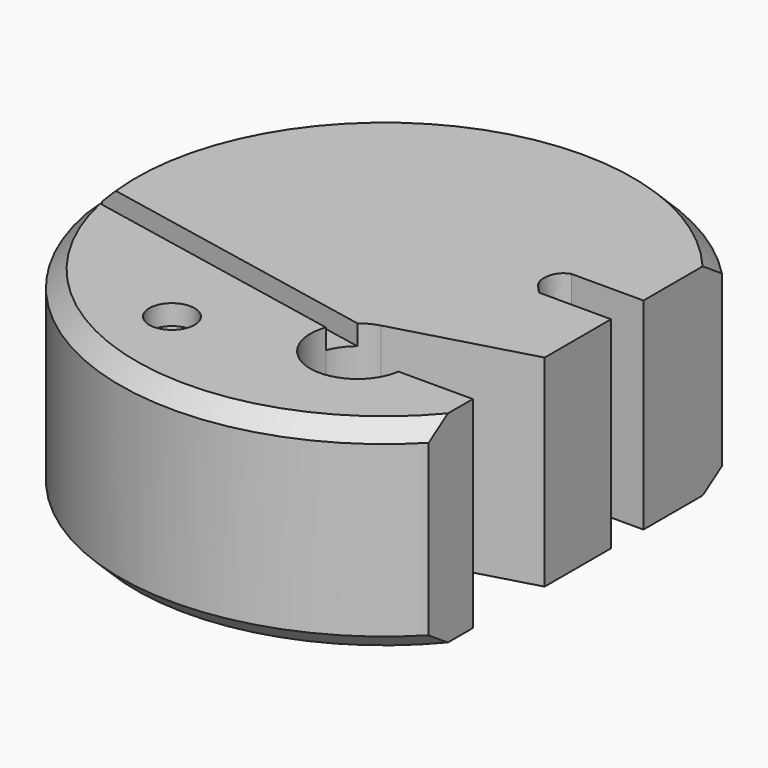
from build123d import *

# Parameters (mm, degrees)
F1_DEPTH      = 12.5
F1_DEPTH_BACK = 12.5
F0_R          = 2.8070950027
F2_DEPTH      = 10
F2_DEPTH_BACK = 10
F3_DEPTH      = 10
F3_DEPTH_BACK = 10
F4_SIZE       = 2


with BuildPart() as f1:
    # F0 (on Top) → F1 (new body, two sides)
    with BuildSketch(Plane.XY) as f1_sk:
        with BuildLine():
            Line((23.6399736516, 10.5625083831), (23.6399736516, 22.7182886664))
            ThreePointArc((23.6399736516, 22.7182886664), (-13.6170982298, 29.8252180206), (-32.6508275376, -2.9820220135))
            Line((-32.6508275376, -2.9820220135), (4.9928135947, -10.4654852259))
            ThreePointArc((4.9928135947, -10.4654852259), (5.9769233021, -9.8277169412), (7.0685930008, -9.3993741227))
            Line((7.0685930008, -9.3993741227), (23.6399736516, -4.7530159354))
            Line((23.6399736516, -4.7530159354), (23.6399736516, 5.5410303175))
            Line((23.6399736516, 5.5410303175), (14.6979210516, 5.5410303175))
            add(Edge.make_bspline(
                [(14.6979210516, 5.5410303175), (13.8268778101, 6.4642787911), (12.7868333876, 7.4491397486), (13.3415861205, 10.1059010181), (14.6979210516, 10.5625083831)],
                knots=[0, 0, 0, 0, 0.4816059779, 1, 1, 1, 1], degree=3))
            Line((14.6979210516, 10.5625083831), (23.6399736516, 10.5625083831))
        make_face()
    extrude(amount=F1_DEPTH)
    extrude(f1_sk.sketch, amount=-F1_DEPTH_BACK)



with BuildPart() as f1b:
    # F0 (on Top) → F1, piece 2 (new body, two sides)
    with BuildSketch(Plane.XY) as f1_2_sk:
        with BuildLine():
            ThreePointArc((-32.2322682046, -6.0041552748), (-9.3966720268, -31.4113283546), (23.6399736516, -22.7182886664))
            Line((23.6399736516, -22.7182886664), (23.6399736516, -15.8816520533))
            Line((23.6399736516, -15.8816520533), (14.4234997289, -15.8816520533))
            ThreePointArc((14.4234997289, -15.8816520533), (7.2168926216, -20.6875953396), (3.1520300545, -13.0384666845))
            Line((3.1520300545, -13.0384666845), (-32.2322682046, -6.0041552748))
        make_face()
        with Locations((-9.9038304761, -20.5706935376)):
            Circle(F0_R, mode=Mode.SUBTRACT)
    extrude(amount=F1_DEPTH)
    extrude(f1_2_sk.sketch, amount=-F1_DEPTH_BACK)


with BuildPart() as f1_1:
    add(f1.part)

    add(f1b.part)  # F2 merges F1b
    # F0 (on Top) → F2 (join, two sides)
    with BuildSketch(Plane.XY) as f2_sk:
        with BuildLine():
            Line((4.9928135947, -10.4654852259), (-32.6508275376, -2.9820220135))
            ThreePointArc((-32.6508275376, -2.9820220135), (-32.4767201336, -4.4979599312), (-32.2322682046, -6.0041552748))
            Line((-32.2322682046, -6.0041552748), (3.1520300545, -13.0384666845))
            ThreePointArc((3.1520300545, -13.0384666845), (3.8949132368, -11.6249813025), (4.9928135947, -10.4654852259))
        make_face()
    extrude(amount=F2_DEPTH)
    extrude(f2_sk.sketch, amount=-F2_DEPTH_BACK)

    # F0 (on Top) → F3 (join, two sides)
    with BuildSketch(Plane.XY) as f3_sk:
        with Locations((-9.9038304761, -20.5706935376)):
            Circle(F0_R)
    extrude(amount=F3_DEPTH)
    extrude(f3_sk.sketch, amount=-F3_DEPTH_BACK)

    # F4
    f4_edges = [f1_1.edges().sort_by_distance(p)[0] for p in [
        (-13.617098, 29.825218, 12.5),
        (-9.396672, -31.411328, 12.5),
        (-13.617098, 29.825218, -12.5),
        (-9.396672, -31.411328, -12.5),
    ]]
    chamfer(f4_edges, length=F4_SIZE)


solid = f1_1.part
